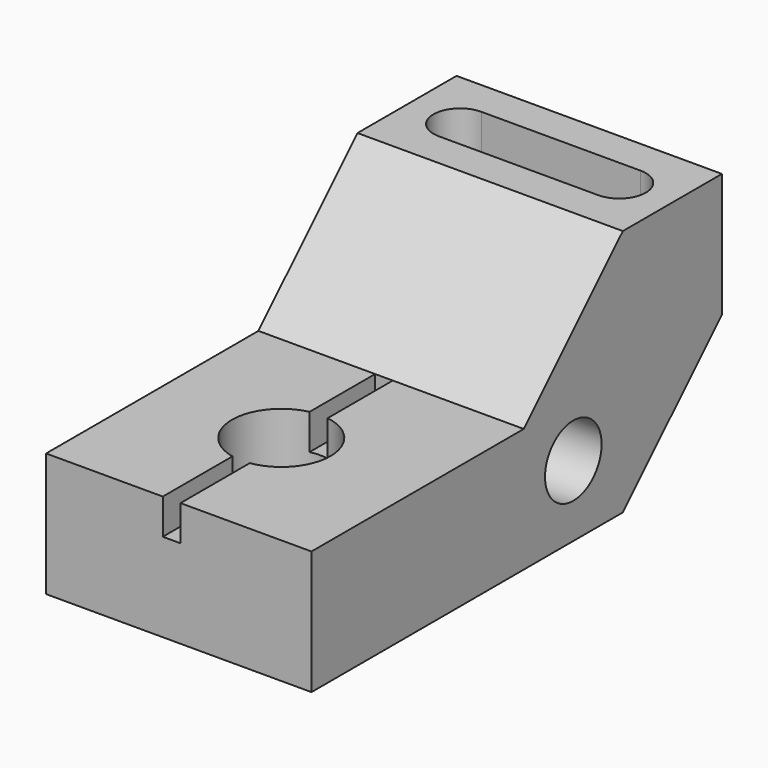
from build123d import *

# Parameters (mm, degrees)
F1_DEPTH = 76.2
F3_DEPTH = 27.94
F4_R     = 10.16
F5_DEPTH = 76.201
F6_W     = 5.08
F6_H     = 76.2
F7_DEPTH = 10.16
F8_R     = 14.139528
F9_DEPTH = 25.4


with BuildPart() as f1:
    # F0 (on Right) → F1 (new body)
    with BuildSketch(Plane.YZ):
        Polygon((-76.2, 35.56), (-76.2, 0), (35.56, 0), (71.12, 35.56), (71.12, 71.12), (35.56, 71.12), (0, 35.56), align=None)
    extrude(amount=F1_DEPTH)

    # F2 (on face) → F3 (cut)
    with BuildSketch(Plane.XY.offset(71.12)):
        with BuildLine():
            Line((60.96, 60.96), (15.24, 60.96))
            ThreePointArc((15.24, 60.96), (7.62, 53.34), (15.24, 45.72))
            Line((15.24, 45.72), (60.96, 45.72))
            ThreePointArc((60.96, 45.72), (68.58, 53.34), (60.96, 60.96))
        make_face()
    extrude(amount=-F3_DEPTH, mode=Mode.SUBTRACT)

    # F4 (on face) → F5 (cut, through all)
    with BuildSketch(Plane.YZ.offset(76.2)):
        with Locations((17.78, 20.32)):
            Circle(F4_R)
    extrude(amount=-F5_DEPTH, mode=Mode.SUBTRACT)

    # F6 (on face) → F7 (cut)
    with BuildSketch(Plane.XY.offset(35.56)):
        with Locations((36.052045, -38.1)):
            Rectangle(F6_W, F6_H)
    extrude(amount=-F7_DEPTH, mode=Mode.SUBTRACT)

    # F8 (on face) → F9 (cut)
    with BuildSketch(Plane.XY.offset(35.56)):
        with Locations((36.461484, -37.369102)):
            Circle(F8_R)
    extrude(amount=-F9_DEPTH, mode=Mode.SUBTRACT)


solid = f1.part
